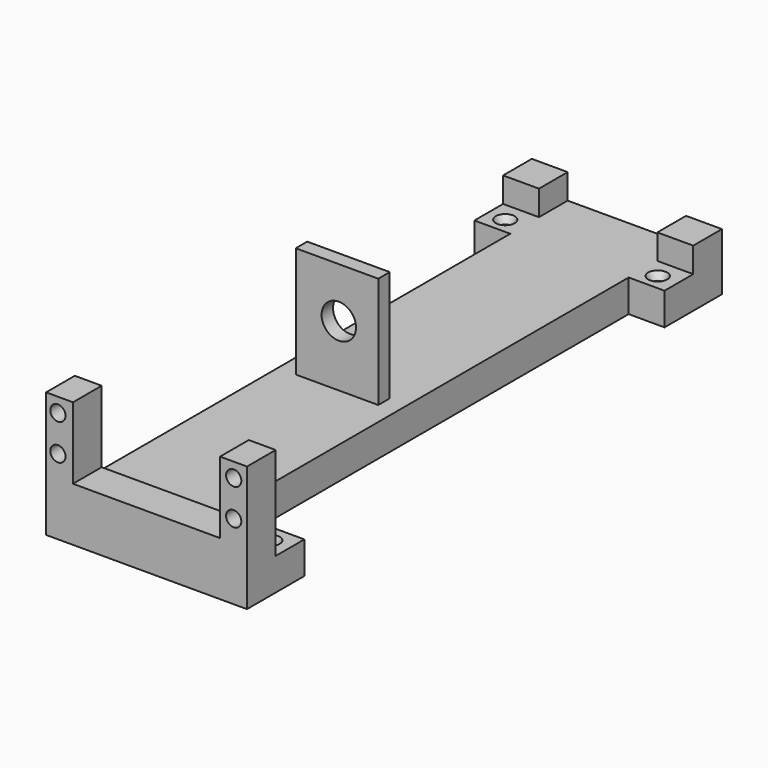
from build123d import *

# Parameters (mm, degrees)
CYLINDER148_R     = 4.8
CYLINDER148_DEPTH = 6.7
CYLINDER147_R     = 1.6
CYLINDER147_DEPTH = 7
CYLINDER146_R     = 1.6
CYLINDER146_DEPTH = 7
CYLINDER140_R     = 1.6
CYLINDER140_DEPTH = 7
CYLINDER012_R     = 2.125
CYLINDER012_DEPTH = 10
CYLINDER013_R     = 2.125
CYLINDER013_DEPTH = 10
CYLINDER010_R     = 2.125
CYLINDER010_DEPTH = 10
CYLINDER011_R     = 2.125
CYLINDER011_DEPTH = 10
CYLINDER145_R     = 3.45
CYLINDER145_DEPTH = 10
CYLINDER141_R     = 1.6
CYLINDER141_DEPTH = 7
CYLINDER142_R     = 1.6
CYLINDER142_DEPTH = 7
CYLINDER144_R     = 1.6
CYLINDER144_DEPTH = 7
CYLINDER143_R     = 1.6
CYLINDER143_DEPTH = 7
BOX007_W          = 41
BOX007_H          = 10
BOX007_DEPTH      = 20
BOX006_W          = 56
BOX006_H          = 10
BOX006_DEPTH      = 26
BOX005_W          = 23
BOX005_H          = 4
BOX005_DEPTH      = 31
BOX008_W          = 22
BOX008_H          = 10
BOX008_DEPTH      = 9
BOX009_W          = 1
BOX009_H          = 10
BOX009_DEPTH      = 9
BOX012_W          = 10
BOX012_H          = 10
BOX012_DEPTH      = 16
BOX013_W          = 10
BOX013_H          = 10
BOX013_DEPTH      = 16
BOX014_W          = 22
BOX014_H          = 10
BOX014_DEPTH      = 9
BOX015_W          = 10
BOX015_H          = 10
BOX015_DEPTH      = 9
BOX016_W          = 10
BOX016_H          = 10
BOX016_DEPTH      = 9
BOX003_W          = 33
BOX003_H          = 180.5
BOX003_DEPTH      = 9


with BuildPart() as hole002:
    # Cylinder148 → Cylinder148 (new body)
    with BuildSketch(Plane(origin=(18, 73, 20), x_dir=(1, 0, 0), z_dir=(0, -1, 0))):
        Circle(CYLINDER148_R)
    extrude(amount=CYLINDER148_DEPTH)


with BuildPart() as wheelscrew018:
    # Cylinder147 → Cylinder147 (new body)
    with BuildSketch(Plane(origin=(9, -124, -19), x_dir=(1, 0, 0), z_dir=(0, 0, 1))):
        Circle(CYLINDER147_R)
    extrude(amount=CYLINDER147_DEPTH)


with BuildPart() as obj1:
    # Cone015 → Cone015 (revolve)
    with BuildSketch(Plane(origin=(9, -124, -12), x_dir=(1, 0, 0), z_dir=(0, -1, 0))):
        Polygon((0, 0), (1.6, 0), (2.65, 2), (0, 2), align=None)
    revolve(axis=Axis((9, -124, -12), (0, 0, 1)))

    # Fusion007051: union wheelScrew018
    add(wheelscrew018.part)


with BuildPart() as obj1_1:
    # Fusion007051 placement: moved
    add(obj1.part.moved(Location((41.5, 128.5, 13))))


with BuildPart() as wheelscrew016:
    # Cylinder146 → Cylinder146 (new body)
    with BuildSketch(Plane(origin=(9, -124, -19), x_dir=(1, 0, 0), z_dir=(0, 0, 1))):
        Circle(CYLINDER146_R)
    extrude(amount=CYLINDER146_DEPTH)


with BuildPart() as obj2:
    # Cone014 → Cone014 (revolve)
    with BuildSketch(Plane(origin=(9, -124, -12), x_dir=(1, 0, 0), z_dir=(0, -1, 0))):
        Polygon((0, 0), (1.6, 0), (2.65, 2), (0, 2), align=None)
    revolve(axis=Axis((9, -124, -12), (0, 0, 1)))

    # Fusion007050: union wheelScrew016
    add(wheelscrew016.part)


with BuildPart() as obj2_1:
    # Fusion007050 placement: moved
    add(obj2.part.moved(Location((-13, 278.5, 13))))


with BuildPart() as wheelscrew005:
    # Cylinder140 → Cylinder140 (new body)
    with BuildSketch(Plane(origin=(9, -124, -19), x_dir=(1, 0, 0), z_dir=(0, 0, 1))):
        Circle(CYLINDER140_R)
    extrude(amount=CYLINDER140_DEPTH)


with BuildPart() as obj3:
    # Cone009 → Cone009 (revolve)
    with BuildSketch(Plane(origin=(9, -124, -12), x_dir=(1, 0, 0), z_dir=(0, -1, 0))):
        Polygon((0, 0), (1.6, 0), (2.65, 2), (0, 2), align=None)
    revolve(axis=Axis((9, -124, -12), (0, 0, 1)))

    # Fusion007043: union wheelScrew005
    add(wheelscrew005.part)


with BuildPart() as obj3_1:
    # Fusion007043 placement: moved
    add(obj3.part.moved(Location((29.5, 278.5, 13))))


with BuildPart() as servoattach003:
    # Cylinder012 → Cylinder012 (new body)
    with BuildSketch(Plane(origin=(52.3, -10.5, 25), x_dir=(1, 0, 0), z_dir=(0, 1, 0))):
        Circle(CYLINDER012_R)
    extrude(amount=CYLINDER012_DEPTH)


with BuildPart() as servoattach004:
    # Cylinder013 → Cylinder013 (new body)
    with BuildSketch(Plane(origin=(52.3, -10.5, 15), x_dir=(1, 0, 0), z_dir=(0, 1, 0))):
        Circle(CYLINDER013_R)
    extrude(amount=CYLINDER013_DEPTH)


with BuildPart() as servoattach001:
    # Cylinder010 → Cylinder010 (new body)
    with BuildSketch(Plane(origin=(3.3, -10.5, 25), x_dir=(1, 0, 0), z_dir=(0, 1, 0))):
        Circle(CYLINDER010_R)
    extrude(amount=CYLINDER010_DEPTH)


with BuildPart() as servoattach002:
    # Cylinder011 → Cylinder011 (new body)
    with BuildSketch(Plane(origin=(3.3, -10.5, 15), x_dir=(1, 0, 0), z_dir=(0, 1, 0))):
        Circle(CYLINDER011_R)
    extrude(amount=CYLINDER011_DEPTH)


with BuildPart() as insert001:
    # Cylinder145 → Cylinder145 (new body)
    with BuildSketch(Plane(origin=(17.5, 180.5, -7), x_dir=(1, 0, 0), z_dir=(0, 0, 1))):
        Circle(CYLINDER145_R)
    extrude(amount=CYLINDER145_DEPTH)


with BuildPart() as wheelscrew008:
    # Cylinder141 → Cylinder141 (new body)
    with BuildSketch(Plane(origin=(9, -124, -19), x_dir=(1, 0, 0), z_dir=(0, 0, 1))):
        Circle(CYLINDER141_R)
    extrude(amount=CYLINDER141_DEPTH)


with BuildPart() as obj4:
    # Cone010 → Cone010 (revolve)
    with BuildSketch(Plane(origin=(9, -124, -12), x_dir=(1, 0, 0), z_dir=(0, -1, 0))):
        Polygon((0, 0), (1.6, 0), (2.65, 2), (0, 2), align=None)
    revolve(axis=Axis((9, -124, -12), (0, 0, 1)))

    # Fusion007045: union wheelScrew008
    add(wheelscrew008.part)


with BuildPart() as obj4_1:
    # Fusion007045 placement: moved
    add(obj4.part.moved(Location((17, 318, 13))))


with BuildPart() as wheelscrew010:
    # Cylinder142 → Cylinder142 (new body)
    with BuildSketch(Plane(origin=(9, -124, -19), x_dir=(1, 0, 0), z_dir=(0, 0, 1))):
        Circle(CYLINDER142_R)
    extrude(amount=CYLINDER142_DEPTH)


with BuildPart() as obj5:
    # Cone011 → Cone011 (revolve)
    with BuildSketch(Plane(origin=(9, -124, -12), x_dir=(1, 0, 0), z_dir=(0, -1, 0))):
        Polygon((0, 0), (1.6, 0), (2.65, 2), (0, 2), align=None)
    revolve(axis=Axis((9, -124, -12), (0, 0, 1)))

    # Fusion007046: union wheelScrew010
    add(wheelscrew010.part)


with BuildPart() as obj5_1:
    # Fusion007046 placement: moved
    add(obj5.part.moved(Location((-1, 318, 13))))


with BuildPart() as wheelscrew014:
    # Cylinder144 → Cylinder144 (new body)
    with BuildSketch(Plane(origin=(9, -124, -19), x_dir=(1, 0, 0), z_dir=(0, 0, 1))):
        Circle(CYLINDER144_R)
    extrude(amount=CYLINDER144_DEPTH)


with BuildPart() as obj6:
    # Cone013 → Cone013 (revolve)
    with BuildSketch(Plane(origin=(9, -124, -12), x_dir=(1, 0, 0), z_dir=(0, -1, 0))):
        Polygon((0, 0), (1.6, 0), (2.65, 2), (0, 2), align=None)
    revolve(axis=Axis((9, -124, -12), (0, 0, 1)))

    # Fusion007048: union wheelScrew014
    add(wheelscrew014.part)


with BuildPart() as obj6_1:
    # Fusion007048 placement: moved
    add(obj6.part.moved(Location((17, 88, 13))))


with BuildPart() as wheelscrew012:
    # Cylinder143 → Cylinder143 (new body)
    with BuildSketch(Plane(origin=(9, -124, -19), x_dir=(1, 0, 0), z_dir=(0, 0, 1))):
        Circle(CYLINDER143_R)
    extrude(amount=CYLINDER143_DEPTH)


with BuildPart() as obj7:
    # Cone012 → Cone012 (revolve)
    with BuildSketch(Plane(origin=(9, -124, -12), x_dir=(1, 0, 0), z_dir=(0, -1, 0))):
        Polygon((0, 0), (1.6, 0), (2.65, 2), (0, 2), align=None)
    revolve(axis=Axis((9, -124, -12), (0, 0, 1)))

    # Fusion007047: union wheelScrew012
    add(wheelscrew012.part)


with BuildPart() as obj7_1:
    # Fusion007047 placement: moved
    add(obj7.part.moved(Location((-1, 88, 13))))


with BuildPart() as frame005:
    # Box007 → Box007 (new body)
    with BuildSketch(Plane(origin=(7.5, -10.5, 9), x_dir=(1, 0, 0), z_dir=(0, 0, 1))):
        with Locations((20.5, 5)):
            Rectangle(BOX007_W, BOX007_H)
    extrude(amount=BOX007_DEPTH)


with BuildPart() as cut005:
    # Box006 → Box006 (new body)
    with BuildSketch(Plane(origin=(0, -10.5, 3), x_dir=(1, 0, 0), z_dir=(0, 0, 1))):
        with Locations((28, 5)):
            Rectangle(BOX006_W, BOX006_H)
    extrude(amount=BOX006_DEPTH)

    # Cut005: cut frame005
    add(frame005.part, mode=Mode.SUBTRACT)


with BuildPart() as frame003:
    # Box005 → Box005 (new body)
    with BuildSketch(Plane(origin=(6, 69, 3), x_dir=(1, 0, 0), z_dir=(0, 0, 1))):
        with Locations((11.5, 2)):
            Rectangle(BOX005_W, BOX005_H)
    extrude(amount=BOX005_DEPTH)


with BuildPart() as frame006:
    # Box008 → Box008 (new body)
    with BuildSketch(Plane(origin=(34, -10.5, -6), x_dir=(1, 0, 0), z_dir=(0, 0, 1))):
        with Locations((11, 5)):
            Rectangle(BOX008_W, BOX008_H)
    extrude(amount=BOX008_DEPTH)


with BuildPart() as frame007:
    # Box009 → Box009 (new body)
    with BuildSketch(Plane(origin=(0, -10.5, -6), x_dir=(1, 0, 0), z_dir=(0, 0, 1))):
        with Locations((0.5, 5)):
            Rectangle(BOX009_W, BOX009_H)
    extrude(amount=BOX009_DEPTH)


with BuildPart() as frame008:
    # Box012 → Box012 (new body)
    with BuildSketch(Plane(origin=(34, 160, -6), x_dir=(1, 0, 0), z_dir=(0, 0, 1))):
        with Locations((5, 5)):
            Rectangle(BOX012_W, BOX012_H)
    extrude(amount=BOX012_DEPTH)


with BuildPart() as frame009:
    # Box013 → Box013 (new body)
    with BuildSketch(Plane(origin=(-9, 160, -6), x_dir=(1, 0, 0), z_dir=(0, 0, 1))):
        with Locations((5, 5)):
            Rectangle(BOX013_W, BOX013_H)
    extrude(amount=BOX013_DEPTH)


with BuildPart() as frame010:
    # Box014 → Box014 (new body)
    with BuildSketch(Plane(origin=(34, -0.5, -6), x_dir=(1, 0, 0), z_dir=(0, 0, 1))):
        with Locations((11, 5)):
            Rectangle(BOX014_W, BOX014_H)
    extrude(amount=BOX014_DEPTH)


with BuildPart() as frame011:
    # Box015 → Box015 (new body)
    with BuildSketch(Plane(origin=(34, 150, -6), x_dir=(1, 0, 0), z_dir=(0, 0, 1))):
        with Locations((5, 5)):
            Rectangle(BOX015_W, BOX015_H)
    extrude(amount=BOX015_DEPTH)


with BuildPart() as frame012:
    # Box016 → Box016 (new body)
    with BuildSketch(Plane(origin=(-9, 150, -6), x_dir=(1, 0, 0), z_dir=(0, 0, 1))):
        with Locations((5, 5)):
            Rectangle(BOX016_W, BOX016_H)
    extrude(amount=BOX016_DEPTH)


with BuildPart() as base004:
    # Box003 → Box003 (new body)
    with BuildSketch(Plane(origin=(1, -10.5, -6), x_dir=(1, 0, 0), z_dir=(0, 0, 1))):
        with Locations((16.5, 90.25)):
            Rectangle(BOX003_W, BOX003_H)
    extrude(amount=BOX003_DEPTH)

    # Fusion007049: union Cut005, frame003, frame006, frame007, frame008, frame009, frame010, frame011, frame012
    add(cut005.part)
    add(frame003.part)
    add(frame006.part)
    add(frame007.part)
    add(frame008.part)
    add(frame009.part)
    add(frame010.part)
    add(frame011.part)
    add(frame012.part)

    # Cut006: cut obj7
    add(obj7_1.part, mode=Mode.SUBTRACT)

    # Cut007: cut obj6
    add(obj6_1.part, mode=Mode.SUBTRACT)

    # Cut008: cut obj5
    add(obj5_1.part, mode=Mode.SUBTRACT)

    # Cut009: cut obj4
    add(obj4_1.part, mode=Mode.SUBTRACT)

    # Cut010: cut insert001
    add(insert001.part, mode=Mode.SUBTRACT)

    # Cut011: cut servoAttach002
    add(servoattach002.part, mode=Mode.SUBTRACT)

    # Cut012: cut servoAttach001
    add(servoattach001.part, mode=Mode.SUBTRACT)

    # Cut013: cut servoAttach004
    add(servoattach004.part, mode=Mode.SUBTRACT)

    # Cut014: cut servoAttach003
    add(servoattach003.part, mode=Mode.SUBTRACT)

    # Cut015: cut obj3
    add(obj3_1.part, mode=Mode.SUBTRACT)

    # Cut016: cut obj2
    add(obj2_1.part, mode=Mode.SUBTRACT)

    # Cut017: cut obj1
    add(obj1_1.part, mode=Mode.SUBTRACT)

    # Cut018: cut hole002
    add(hole002.part, mode=Mode.SUBTRACT)


solid = base004.part
